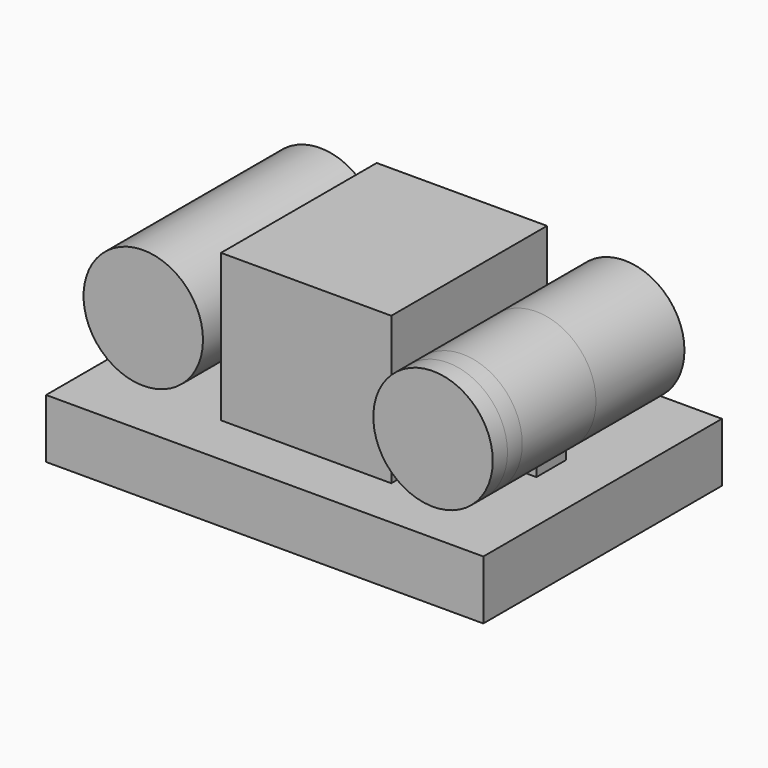
from build123d import *

# Parameters (mm, degrees)
F0_W      = 30.1244
F0_H      = 20.5486
F1_DEPTH  = 4.064
F2_W      = 11.7348
F2_H      = 13.4112
F3_DEPTH  = 10.16
F4_R      = 4.1148
F5_DEPTH  = 7.62
F6_W      = 1.714757
F6_H      = 6.894373
F6_H_2    = 6.894372
F5_FACE_R = 4.1148
F7_DEPTH  = 1.27


with BuildPart() as f1:
    # F0 (on Top) → F1 (new body)
    with BuildSketch(Plane.XY):
        Rectangle(F0_W, F0_H)
    extrude(amount=F1_DEPTH)

    # F2 (on face) → F3 (join)
    with BuildSketch(Plane.XY.offset(4.064)):
        Rectangle(F2_W, F2_H)
    extrude(amount=F3_DEPTH)



with BuildPart() as f5:
    # F4 (on Front) → F5 (new body, symmetric)
    with BuildSketch(Plane.XZ):
        with Locations((10.4902, 9.144)):
            Circle(F4_R)
        with Locations((-10.4902, 9.144)):
            Circle(F4_R)
    extrude(amount=F5_DEPTH, both=True)


with BuildPart() as f1_1:
    add(f1.part)

    add(f5.part)  # F7 merges F5
    # F6 (on Front) + F5_face (on face) → F7 (join, symmetric)
    with BuildSketch(Plane.XZ):
        with Locations((-10.485539, 5.029202)):
            Rectangle(F6_W, F6_H)
        with Locations((10.657787, 5.032614)):
            Rectangle(F6_W, F6_H_2)
    with BuildSketch(Plane(origin=(10.4902, -7.62, 9.144), x_dir=(1, 0, 0), z_dir=(0, -1, 0))):
        Circle(F5_FACE_R)
    extrude(amount=F7_DEPTH, both=True)


solid = f1_1.part
